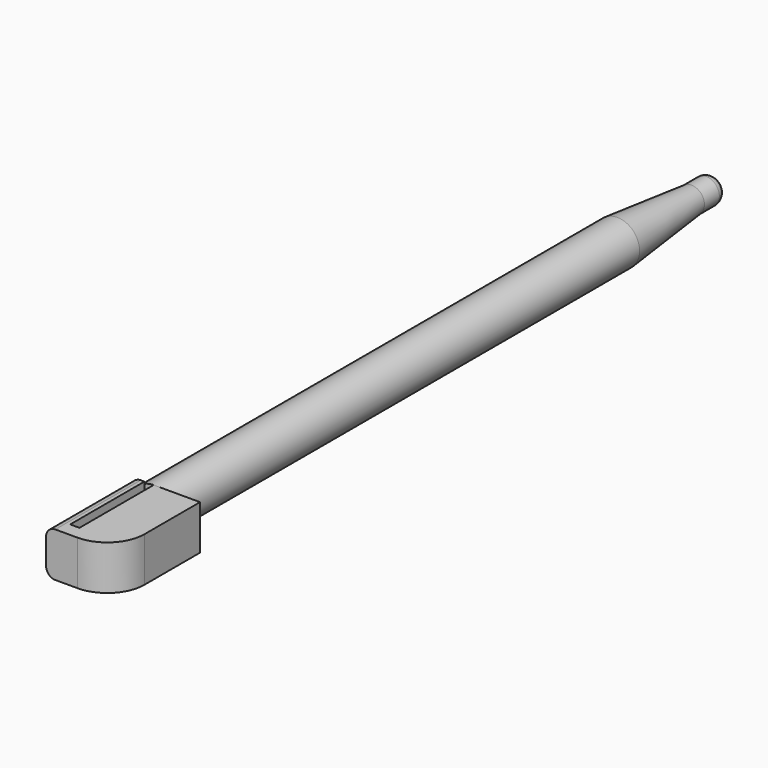
from build123d import *

# Parameters (mm, degrees)
CYLINDER026_R                                        = 1.4
CYLINDER026_DEPTH                                    = 3
FILLET005011017004_R                                 = 1
BOX085009_W                                          = 1
BOX085009_H                                          = 4.8
BOX085009_DEPTH                                      = 10
BOX085008_W                                          = 7.4
BOX085008_H                                          = 4.8
BOX085008_DEPTH                                      = 11.5
FILLET005011017005_R                                 = 1
FILLET005011017006_R                                 = 4
CYLINDER025_R                                        = 2.4
CYLINDER025_DEPTH                                    = 72.5
CHAMFER011002_SIZE2                                  = 1
CHAMFER011002_SIZE                                   = 10
FUSION004008002002002001007002002008_PLACEMENT_ANGLE = 90


with BuildPart() as fillet005011017004:
    # Cylinder026 → Cylinder026 (new body)
    with BuildSketch(Plane.XY.offset(72.5)):
        Circle(CYLINDER026_R)
    extrude(amount=CYLINDER026_DEPTH)

    # Fillet005011017004
    fillet005011017004_edges = [fillet005011017004.edges().sort_by_distance(p)[0] for p in [
        (-1.4, 0, 75.5),
    ]]
    fillet(fillet005011017004_edges, radius=FILLET005011017004_R)


with BuildPart() as cube097:
    # Box085009 → Box085009 (new body)
    with BuildSketch(Plane(origin=(-1, -2.4, -10), x_dir=(1, 0, 0), z_dir=(0, 0, 1))):
        with Locations((0.5, 2.4)):
            Rectangle(BOX085009_W, BOX085009_H)
    extrude(amount=BOX085009_DEPTH)


with BuildPart() as cut001002016002:
    # Box085008 → Box085008 (new body)
    with BuildSketch(Plane(origin=(-2.4, -2.4, -11.5), x_dir=(1, 0, 0), z_dir=(0, 0, 1))):
        with Locations((3.7, 2.4)):
            Rectangle(BOX085008_W, BOX085008_H)
    extrude(amount=BOX085008_DEPTH)

    # Fillet005011017005
    fillet005011017005_edges = [cut001002016002.edges().sort_by_distance(p)[0] for p in [
        (-2.4, -2.4, -5.75),
        (-2.4, 2.4, -5.75),
    ]]
    fillet(fillet005011017005_edges, radius=FILLET005011017005_R)

    # Fillet005011017006
    fillet005011017006_edges = [cut001002016002.edges().sort_by_distance(p)[0] for p in [
        (5, 0, -11.5),
    ]]
    fillet(fillet005011017006_edges, radius=FILLET005011017006_R)

    # Cut001002016002: cut Cube097
    add(cube097.part, mode=Mode.SUBTRACT)


with BuildPart() as stylus:
    # Cylinder025 → Cylinder025 (new body)
    with BuildSketch(Plane.XY):
        Circle(CYLINDER025_R)
    extrude(amount=CYLINDER025_DEPTH)

    # Chamfer011002
    chamfer011002_edges = [stylus.edges().sort_by_distance(p)[0] for p in [
        (-2.4, 0, 72.5),
    ]]
    chamfer011002_side = stylus.faces().sort_by_distance((-2.4, 0, 36.25))[0]
    chamfer(chamfer011002_edges, length=CHAMFER011002_SIZE, length2=CHAMFER011002_SIZE2, reference=chamfer011002_side)

    # Fusion004008002002002001007002002008: union Fillet005011017004, Cut001002016002
    add(fillet005011017004.part)
    add(cut001002016002.part)


with BuildPart() as stylus_1:
    # Fusion004008002002002001007002002008 placement: moved
    add(stylus.part.moved(Location((13, -2, 40))).rotate(Axis((13, -2, 40), (-1, 0, 0)), FUSION004008002002002001007002002008_PLACEMENT_ANGLE))


solid = stylus_1.part
